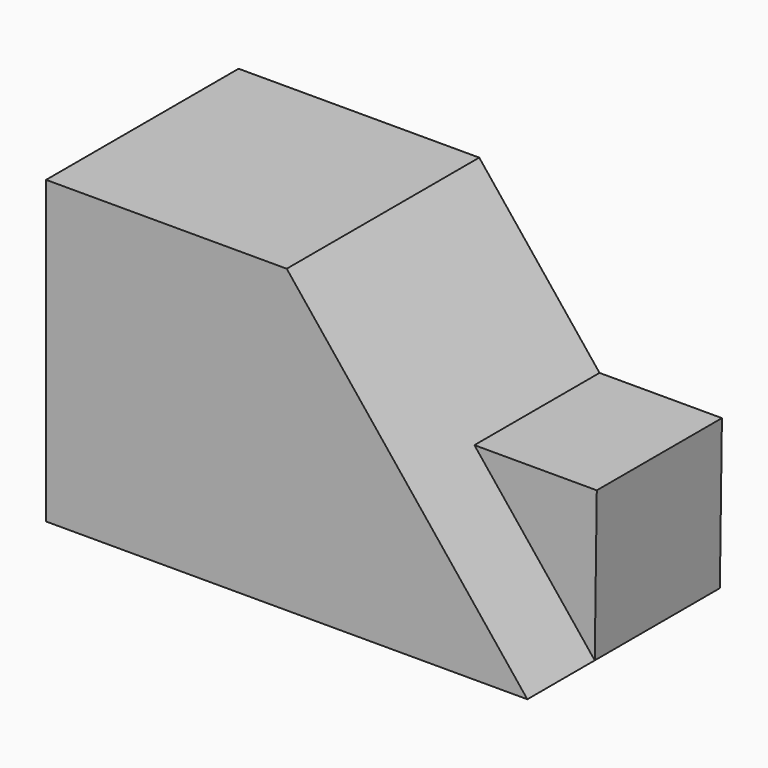
from build123d import *

# Parameters (mm, degrees)
F0_W     = 50.8
F0_H     = 31.75
F1_DEPTH = 25.4
F3_DEPTH = 25.401
F5_DEPTH = 16.51


with BuildPart() as f1:
    # F0 (on Front) → F1 (new body)
    with BuildSketch(Plane.XZ):
        with Locations((-29.731384, 39.01551)):
            Rectangle(F0_W, F0_H)
    extrude(amount=F1_DEPTH)

    # F2 (on face) → F3 (cut, through all)
    with BuildSketch(Plane.XZ.offset(25.4)):
        Polygon((-4.331384, 54.89051), (-29.731384, 54.89051), (-4.331384, 23.14051), align=None)
    extrude(amount=-F3_DEPTH, mode=Mode.SUBTRACT)

    # F4 (on face) → F5 (join)
    with BuildSketch(Plane(origin=(0, 0, 0), x_dir=(-1, 0, 0), z_dir=(0, 1, 0))):
        Polygon((4.331384, 23.14051), (17.031384, 39.01551), (4.114715, 39.01551), align=None)
    extrude(amount=-F5_DEPTH)


solid = f1.part
